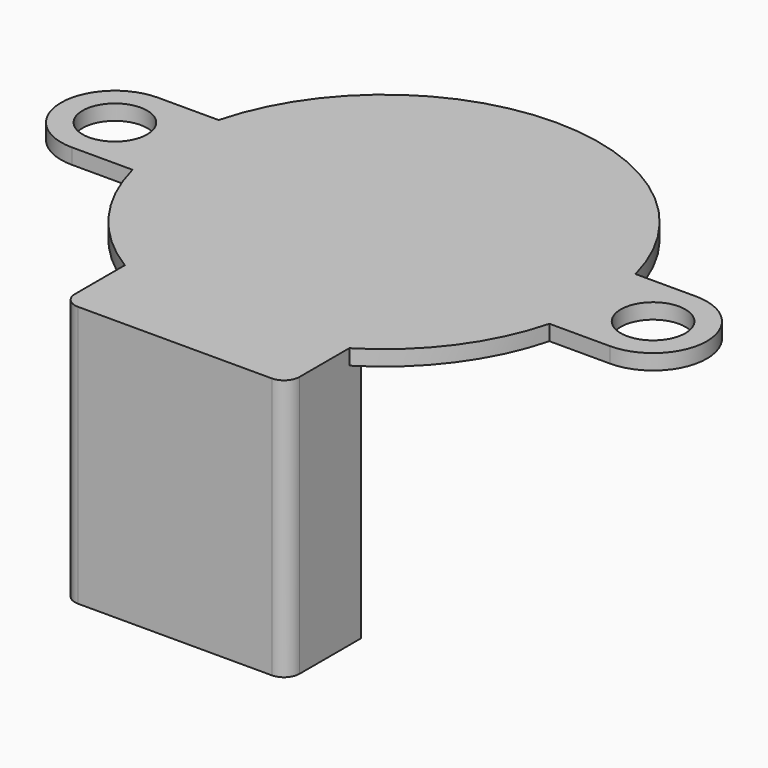
from build123d import *

# Parameters (mm, degrees)
PAD028_DEPTH  = 1
SKETCH038_R   = 2.1
HOLE001_DEPTH = 25
PAD027_DEPTH  = 17


with BuildPart() as part:
    # Sketch037 (on Face1 of CopyPad003) → Pad028 (new body)
    with BuildSketch(Plane.XY.offset(19)):
        with BuildLine():
            ThreePointArc((-13.555442, -3.5), (0, -14), (13.555442, -3.5))
            Line((13.555442, -3.5), (17.5, -3.5))
            ThreePointArc((17.5, -3.5), (21, 0), (17.5, 3.5))
            Line((13.555442, 3.5), (17.5, 3.5))
            ThreePointArc((13.555442, 3.5), (0, 14), (-13.555442, 3.5))
            Line((-13.555442, 3.5), (-17.5, 3.5))
            ThreePointArc((-17.5, 3.5), (-21, 0), (-17.5, -3.5))
            Line((-13.555442, -3.5), (-17.5, -3.5))
        make_face()
    extrude(amount=-PAD028_DEPTH)

    # Sketch038 (on Face9 of Pad028) → Hole001 (cut)
    with BuildSketch(Plane.XY.offset(19)):
        with Locations((-17.5, 0)):
            Circle(SKETCH038_R)
        with Locations((17.5, 0)):
            Circle(SKETCH038_R)
    extrude(amount=-HOLE001_DEPTH, mode=Mode.SUBTRACT)

    # Sketch006 (on Face4 of Hole001) → Pad027 (join)
    with BuildSketch(Plane.XY.offset(19)):
        with BuildLine():
            Line((-7.3, -11), (7.3, -11))
            Line((7.3, -11), (7.3, -16))
            ThreePointArc((6.3, -17), (7.007107, -16.707107), (7.3, -16))
            Line((6.3, -17), (-6.3, -17))
            ThreePointArc((-7.3, -16), (-7.007107, -16.707107), (-6.3, -17))
            Line((-7.3, -16), (-7.3, -11))
        make_face()
    extrude(amount=-PAD027_DEPTH)


solid = part.part
